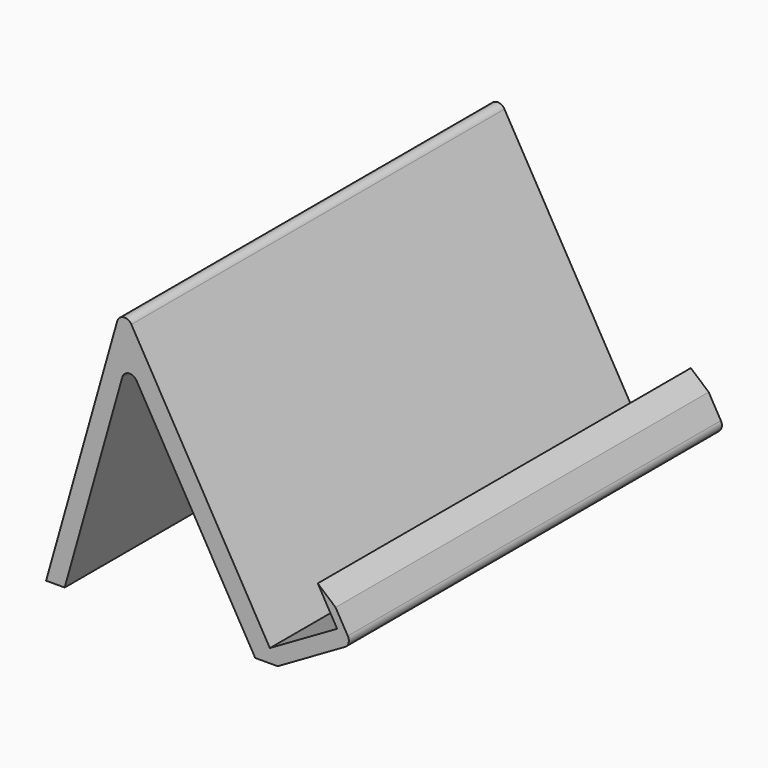
from build123d import *

# Parameters (mm, degrees)
F1_DEPTH = 60


with BuildPart() as f1:
    # F0 (on Front) → F1 (new body)
    with BuildSketch(Plane.XZ):
        with BuildLine():
            Line((19, 1.732051), (1.18418, 32.589956))
            ThreePointArc((1.18418, 32.589956), (0.194399, 33.082269), (-0.644148, 32.361937))
            Line((-0.644148, 32.361937), (-9.790771, 0))
            Line((-9.790771, 0), (-7.40067, 0))
            Line((-7.40067, 0), (0.011709, 26.225959))
            ThreePointArc((0.011709, 26.225959), (0.850256, 26.946291), (1.840037, 26.453979))
            Line((1.840037, 26.453979), (17.113249, 0))
            Line((17.113249, 0), (20, 0))
            Line((20, 0), (19, 1.732051))
        make_face()
        with BuildLine():
            Line((27.660254, 6.732051), (19, 1.732051))
            Line((19, 1.732051), (20, 0))
            Line((20, 0), (28.660254, 5))
            ThreePointArc((28.660254, 5), (29.12618, 5.607206), (29.026279, 6.366025))
            Line((29.026279, 6.366025), (27.454006, 9.089284))
            Line((27.454006, 9.089284), (25.160254, 11.062178))
            Line((25.160254, 11.062178), (27.660254, 6.732051))
        make_face()
    extrude(amount=F1_DEPTH)


solid = f1.part
